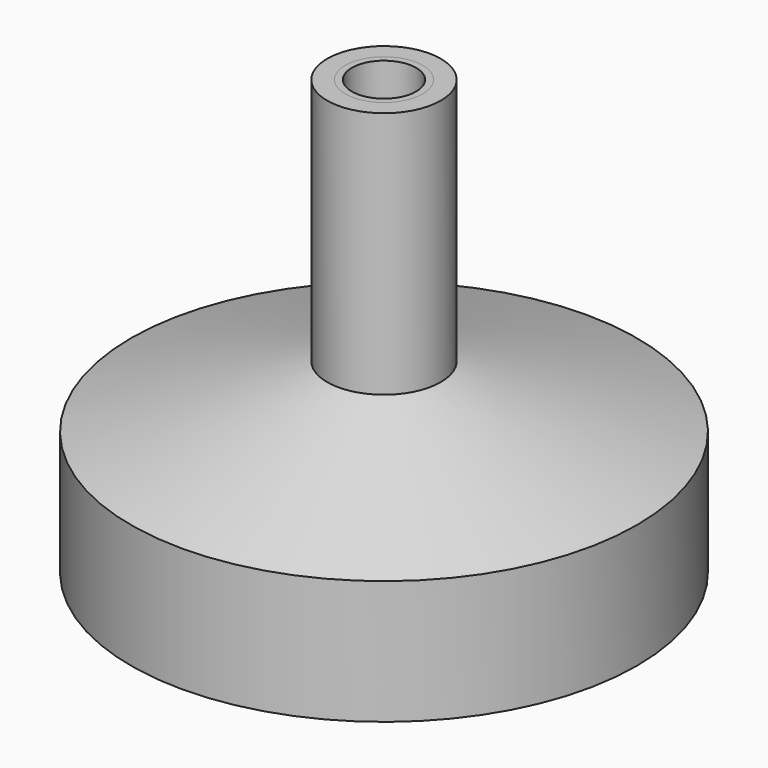
from build123d import *

# Parameters (mm, degrees)
F2_R      = 4.7625
F3_DEPTH  = 9.525
F4_R      = 1.5875
F5_DEPTH  = 9.525
F3_FACE_R = 4.7625
F6_DEPTH  = 9.525
F7_R      = 3.954416
F8_DEPTH  = 9.525
F5_FACE_R = 1.5875
F9_DEPTH  = 11.43
F10_DEPTH = 28.575


with BuildPart() as f1:
    # F0 (on Front) → F1 (revolve)
    with BuildSketch(Plane.XZ):
        Polygon((3.81, 1.905), (31.115, 9.525), (31.115, 24.765), (6.985, 32.385), (6.985, 62.865), (0, 62.865), (0, 1.905), align=None)
    revolve(axis=Axis((0, 0, 32.385), (0, 0, -1)))

    # F2 (on face) → F3 (cut)
    with BuildSketch(Plane.XY.offset(62.865)):
        Circle(F2_R)
    extrude(amount=-F3_DEPTH, mode=Mode.SUBTRACT)

    # F4 (on face) → F5 (cut)
    with BuildSketch(Plane(origin=(0, 0, 1.905), x_dir=(1, 0, 0), z_dir=(0, 0, -1))):
        Circle(F4_R)
    extrude(amount=-F5_DEPTH, mode=Mode.SUBTRACT)

    # F3_face (on face) → F10 (cut)
    with BuildSketch(Plane.XY.offset(53.34)):
        Circle(F3_FACE_R)
    extrude(amount=-F10_DEPTH, mode=Mode.SUBTRACT)


with BuildPart() as f6:
    # F3_face (on face) → F6 (new body)
    with BuildSketch(Plane.XY.offset(53.34)):
        Circle(F3_FACE_R)
    extrude(amount=F6_DEPTH)

    # F7 (on face) → F8 (cut)
    with BuildSketch(Plane.XY.offset(62.865)):
        Circle(F7_R)
    extrude(amount=-F8_DEPTH, mode=Mode.SUBTRACT)


with BuildPart() as f9:
    # F5_face (on face) → F9 (new body)
    with BuildSketch(Plane(origin=(0, 0, 11.43), x_dir=(1, 0, 0), z_dir=(0, 0, -1))):
        Circle(F5_FACE_R)
    extrude(amount=F9_DEPTH)


solid = Compound([f1.part, f6.part, f9.part])
